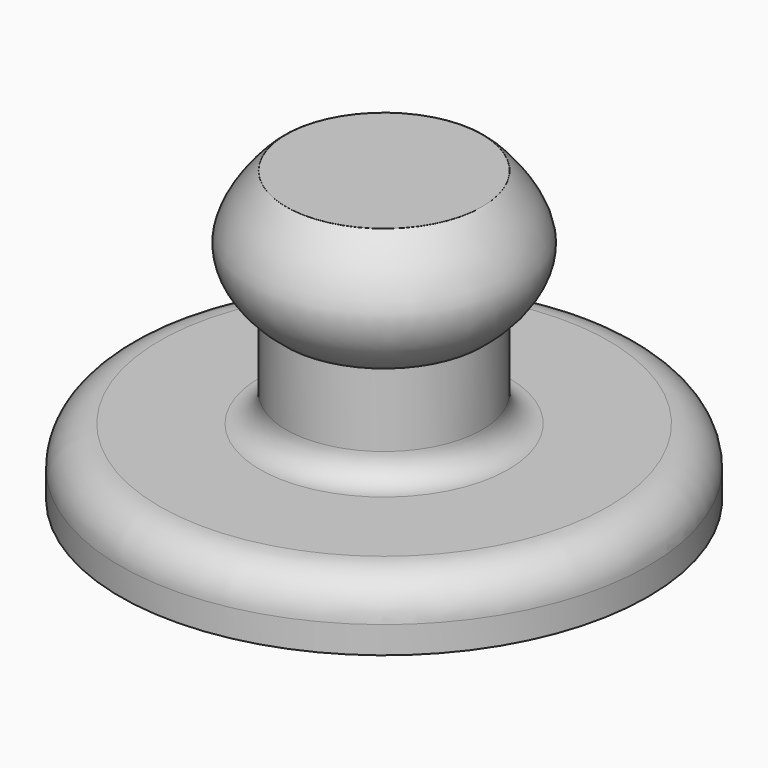
from build123d import *

# Parameters (mm, degrees)
F2_R     = 5.08
F3_R     = 7.62
F4_R     = 14.2888037355
F5_DEPTH = 25.4


with BuildPart() as f1:
    # F0 (on Front) → F1 (revolve)
    with BuildSketch(Plane.XZ):
        with BuildLine():
            Line((0, 55.7674504817), (0, 0))
            Line((0, 0), (50.8806146681, 0))
            Line((50.8806146681, 0), (50.8806146681, 12.8399282694))
            Line((50.8806146681, 12.8399282694), (18.8766103238, 12.8399282694))
            Line((18.8766103238, 12.8399282694), (18.8766103238, 32.0040024817))
            add(Edge.make_bspline(
                [(18.8766103238, 32.0040024817), (21.8979616755, 34.2451012966), (31.0578233334, 44.0143150598), (19.2667769723, 55.8005396658), (18.8766103238, 55.7674504817)],
                knots=[0, 0, 0, 0, 0.4863492735, 0.9442337123, 0.9442337123, 0.9442337123, 0.9442337123], degree=3))
            Line((18.8766103238, 55.7674504817), (0, 55.7674504817))
        make_face()
    revolve(axis=Axis((0, 0, 27.8837252408), (0, 0, -1)))

    # F2
    f2_edges = [f1.edges().sort_by_distance(p)[0] for p in [
        (-18.87661, 0, 12.839928),
    ]]
    fillet(f2_edges, radius=F2_R)

    # F3
    f3_edges = [f1.edges().sort_by_distance(p)[0] for p in [
        (-50.880615, 0, 12.839928),
    ]]
    fillet(f3_edges, radius=F3_R)

    # F4 (on Top) → F5 (join)
    with BuildSketch(Plane.XY):
        Circle(F4_R)
    extrude(amount=F5_DEPTH)


solid = f1.part
